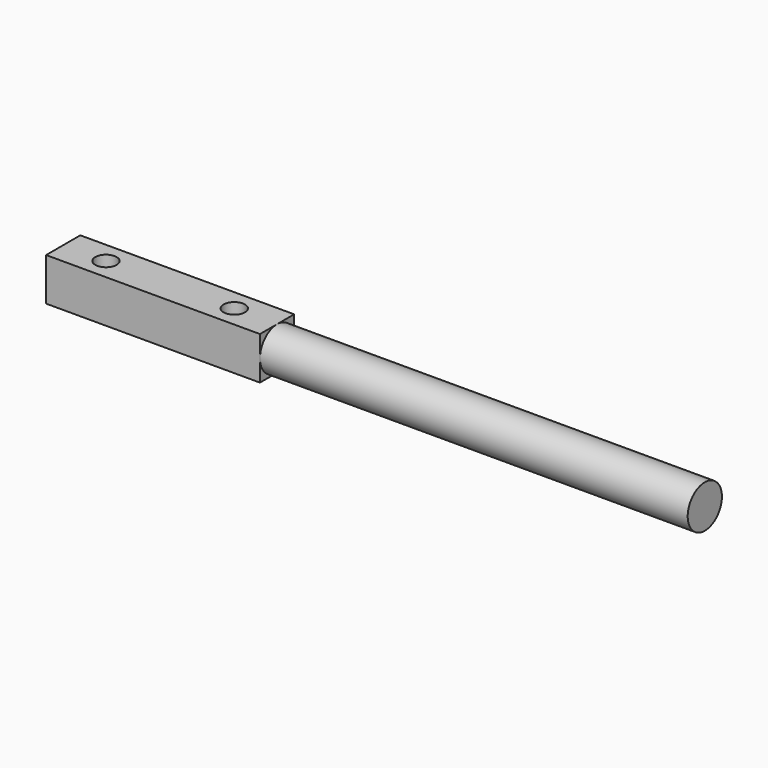
from build123d import *

# Parameters (mm, degrees)
F0_W     = 0.5
F0_H     = 0.5
F1_DEPTH = 2.5
F2_R     = 0.25
F3_DEPTH = 5
F4_R     = 0.125
F5_DEPTH = 25


with BuildPart() as f1:
    # F0 (on Right) → F1 (new body)
    with BuildSketch(Plane.YZ):
        Rectangle(F0_W, F0_H)
    extrude(amount=F1_DEPTH)

    # F2 (on face) → F3 (join)
    with BuildSketch(Plane.YZ.offset(2.5)):
        Circle(F2_R)
    extrude(amount=F3_DEPTH)

    # F4 (on face) → F5 (cut)
    with BuildSketch(Plane.XY.offset(0.25)):
        with Locations((0.5, 0)):
            Circle(F4_R)
        with Locations((2, 0)):
            Circle(F4_R)
    extrude(amount=-F5_DEPTH, mode=Mode.SUBTRACT)


solid = f1.part
